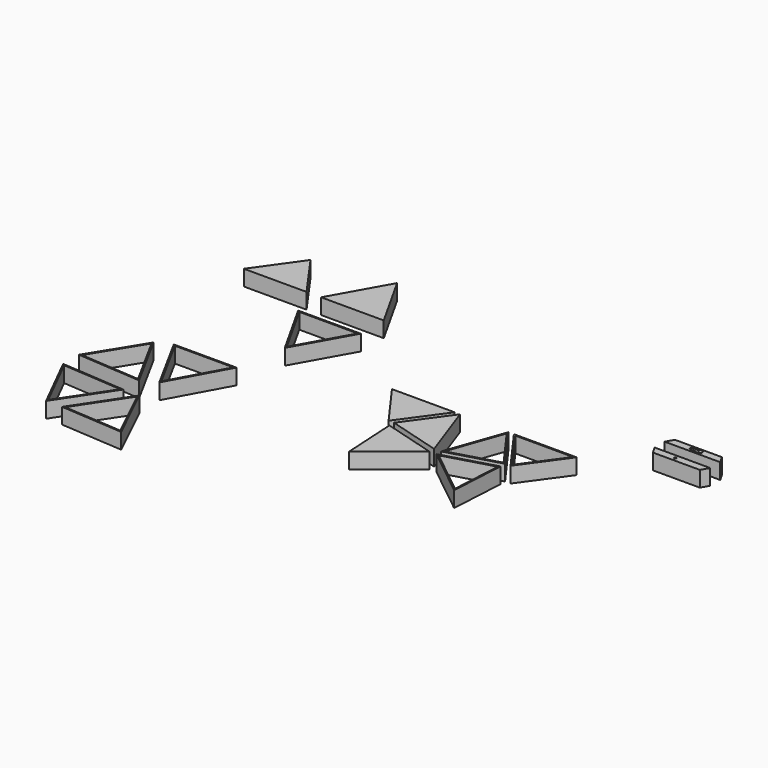
from build123d import *

# Parameters (mm, degrees)
F0_R     = 1.5
F1_DEPTH = 25


with BuildPart() as f1:
    # F0 (on Top) → F1 (new body)
    with BuildSketch(Plane.XY):
        Polygon((-444.376796, 70.462472), (-494.376796, 0), (-394.376796, 0), align=None)
        Polygon((-321.12956, 89.133832), (-371.12956, 0), (-271.12956, 0), align=None)
        Polygon((-271.12956, -45.783076), (-371.12956, -45.783076), (-321.12956, -134.916908), align=None)
        Polygon((-321.12956, -130.828908), (-367.714471, -47.783076), (-274.54465, -47.783076), align=None, mode=Mode.SUBTRACT)
        Polygon((-509.826546, -309.663062), (-408.084696, -316.915376), (-458.084696, -225.495247), align=None)
        Polygon((-458.185719, -229.478538), (-411.597872, -314.659877), (-506.396546, -307.902483), align=None, mode=Mode.SUBTRACT)
        Polygon((-384.980112, -305.499285), (-334.980112, -214.079156), (-434.980112, -214.079156), align=None)
        Polygon((-384.980112, -301.331285), (-431.606676, -216.079156), (-338.353549, -216.079156), align=None, mode=Mode.SUBTRACT)
        Polygon((-464.010746, -432.542231), (-408.084696, -348.439455), (-509.826546, -341.187141), align=None)
        Polygon((-411.650805, -350.190332), (-463.767898, -428.565118), (-506.46332, -343.431951), align=None, mode=Mode.SUBTRACT)
        Polygon((-338.635849, -439.430486), (-382.472277, -348.439455), (-438.398327, -432.542231), align=None)
        Polygon((-434.82735, -430.784033), (-382.750562, -352.469859), (-341.931296, -437.198185), align=None, mode=Mode.SUBTRACT)
        Polygon((-47.334168, -138.378977), (-147.334168, -138.378977), (-97.334168, -207.611628), align=None)
        Polygon((-38.605976, -138.378977), (-88.605976, -207.611628), (-5.571965, -231.492854), align=None)
        Polygon((-5.571965, -240.7586), (-88.605976, -216.877374), (-83.729527, -303.13965), align=None)
        Polygon((38.605976, -138.378977), (5.571965, -231.492854), (88.605976, -207.611628), align=None)
        Polygon((39.216369, -142.640159), (85.318765, -206.475981), (8.757428, -228.495615), align=None, mode=Mode.SUBTRACT)
        Polygon((147.334168, -138.378977), (47.334168, -138.378977), (97.334168, -207.611628), align=None)
        Polygon((97.334168, -204.195628), (51.245617, -140.378977), (143.422718, -140.378977), align=None, mode=Mode.SUBTRACT)
        Polygon((88.605976, -216.877374), (5.571965, -240.7586), (83.729527, -303.13965), align=None)
        Polygon((9.845506, -241.610571), (86.450087, -219.578499), (81.951228, -299.161376), align=None, mode=Mode.SUBTRACT)
        Polygon((288.485552, -68.893767), (295.413755, -56.893767), (206.557348, -56.893767), (213.485552, -68.893767), align=None)
        with Locations((244.518675, -63.006647)):
            Circle(F0_R, mode=Mode.SUBTRACT)
        Polygon((288.485552, -24.828822), (213.485552, -24.828822), (206.557348, -36.828822), (295.413755, -36.828822), align=None)
        with BuildLine():
            ThreePointArc((253.791441, -28.557316), (261.701081, -30.60895), (253.904732, -33.056103))
            ThreePointArc((253.904732, -33.056103), (249.171864, -33.070052), (244.440151, -32.964572))
            ThreePointArc((244.440151, -32.964572), (242.270046, -30.637419), (244.597199, -28.467313))
            ThreePointArc((244.597199, -28.467313), (249.193754, -28.570052), (253.791441, -28.557316))
        make_face(mode=Mode.SUBTRACT)
    extrude(amount=F1_DEPTH)


solid = f1.part
